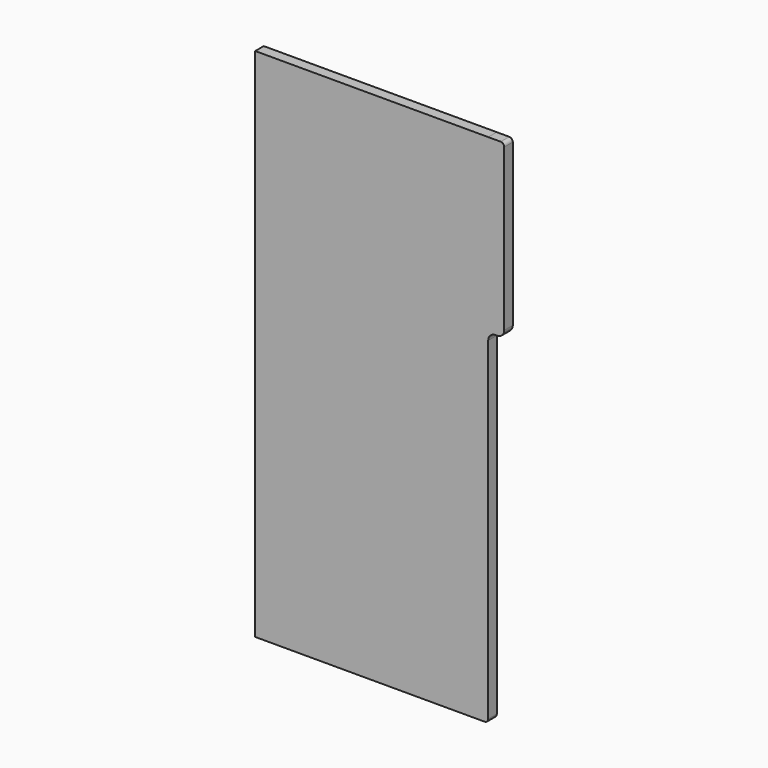
from build123d import *

# Parameters (mm, degrees)
F0_W     = 207.9625
F0_H     = 460.375
F1_DEPTH = 9.525
F2_W     = 14.2875
F2_H     = 153.458333
F3_DEPTH = 9.525
F4_R     = 3.175
F5_R     = 6.35


with BuildPart() as f1:
    # F0 (on Front) → F1 (new body)
    with BuildSketch(Plane.XZ):
        Rectangle(F0_W, F0_H)
    extrude(amount=F1_DEPTH)

    # F2 (on Front) → F3 (join, through all)
    with BuildSketch(Plane.XZ):
        with Locations((111.125, 153.458333)):
            Rectangle(F2_W, F2_H)
    extrude(amount=F3_DEPTH)

    # F4
    f4_edges = [f1.edges().sort_by_distance(p)[0] for p in [
        (103.98125, -4.7625, -230.1875),
        (118.26875, -4.7625, 230.1875),
    ]]
    fillet(f4_edges, radius=F4_R)

    # F5
    f5_edges = [f1.edges().sort_by_distance(p)[0] for p in [
        (103.98125, -4.7625, 76.729167),
        (118.26875, -4.7625, 76.729167),
    ]]
    fillet(f5_edges, radius=F5_R)


solid = f1.part
